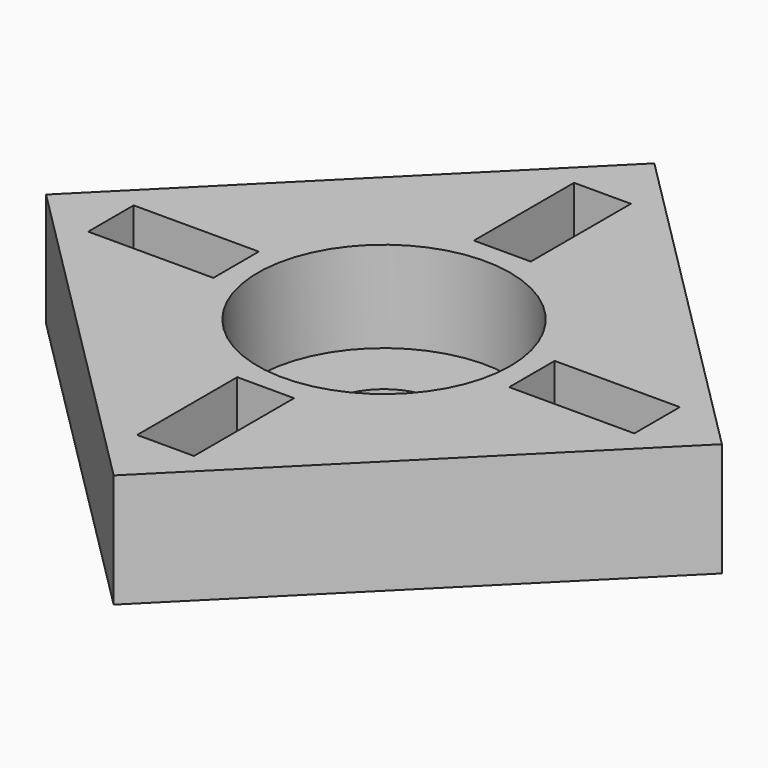
from build123d import *

# Parameters (mm, degrees)
SKETCH_R     = 5
SKETCH_W     = 11
SKETCH_H     = 5
SKETCH_W_2   = 5
SKETCH_H_2   = 11
PAD_DEPTH    = 10
SKETCH001_R  = 11.1
POCKET_DEPTH = 8


with BuildPart() as part:
    # Sketch → Pad (new body)
    with BuildSketch(Plane.XY):
        Polygon((29.698485, 0), (0, 29.698485), (-29.698485, 0), (0, -29.698485), align=None)
        Circle(SKETCH_R, mode=Mode.SUBTRACT)
        with Locations((-18.5, 0)):
            Rectangle(SKETCH_W, SKETCH_H, mode=Mode.SUBTRACT)
        with Locations((0, 18.5)):
            Rectangle(SKETCH_W_2, SKETCH_H_2, mode=Mode.SUBTRACT)
        with Locations((0, -18.5)):
            Rectangle(SKETCH_W_2, SKETCH_H_2, mode=Mode.SUBTRACT)
        with Locations((18.5, 0)):
            Rectangle(SKETCH_W, SKETCH_H, mode=Mode.SUBTRACT)
    extrude(amount=PAD_DEPTH)

    # Sketch001 → Pocket (cut)
    with BuildSketch(Plane.XY.offset(10)):
        Circle(SKETCH001_R)
    extrude(amount=-POCKET_DEPTH, mode=Mode.SUBTRACT)


solid = part.part
